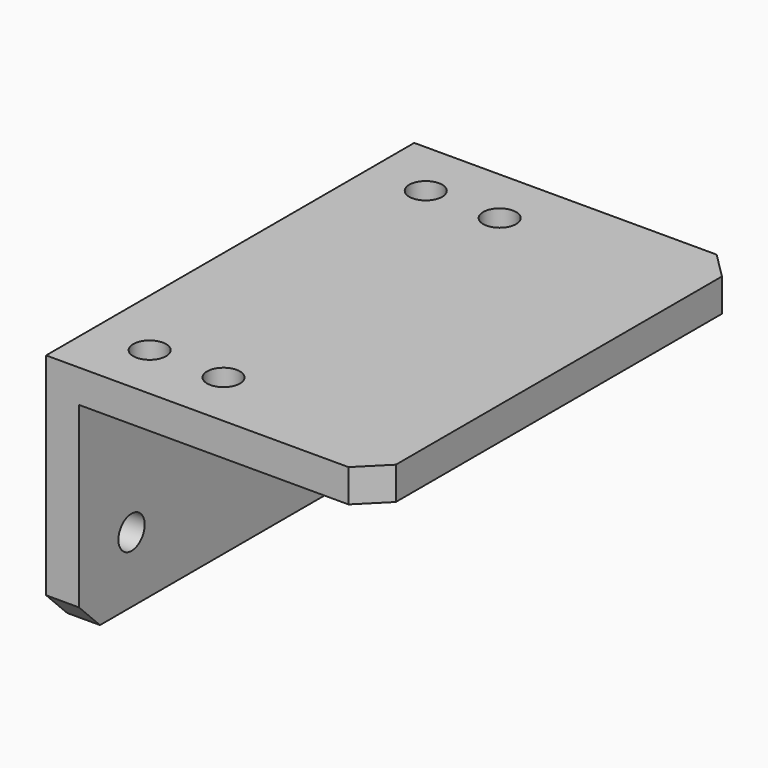
from build123d import *

# Parameters (mm, degrees)
F1_DEPTH = 88.9
F3_D     = 6.35
F4_SIZE  = 5.08
F6_D     = 6.35


with BuildPart() as f1:
    # F0 (on Front) → F1 (new body)
    with BuildSketch(Plane.XZ):
        Polygon((0, 45.871365), (0, 0), (6.35, 0), (6.35, 39.521365), (63.5, 39.521365), (63.5, 45.871365), align=None)
    extrude(amount=F1_DEPTH)

    # F3 (through all)
    with Locations(Plane.YZ.offset(6.35)):
        with Locations((-76.2, 12.7), (-12.7, 12.7)):
            Hole(F3_D / 2)

    # F4
    f4_edges = [f1.edges().sort_by_distance(p)[0] for p in [
        (3.175, 0, 0),
        (3.175, -88.9, 0),
        (63.5, -88.9, 42.696365),
        (63.5, 0, 42.696365),
    ]]
    chamfer(f4_edges, length=F4_SIZE)

    # F6 (through all)
    with Locations(Plane.XY.offset(45.871365)):
        with Locations((11.1252, -11.1252), (25.4, -11.1252), (25.4, -77.8002), (11.1252, -77.8002)):
            Hole(F6_D / 2)


solid = f1.part
